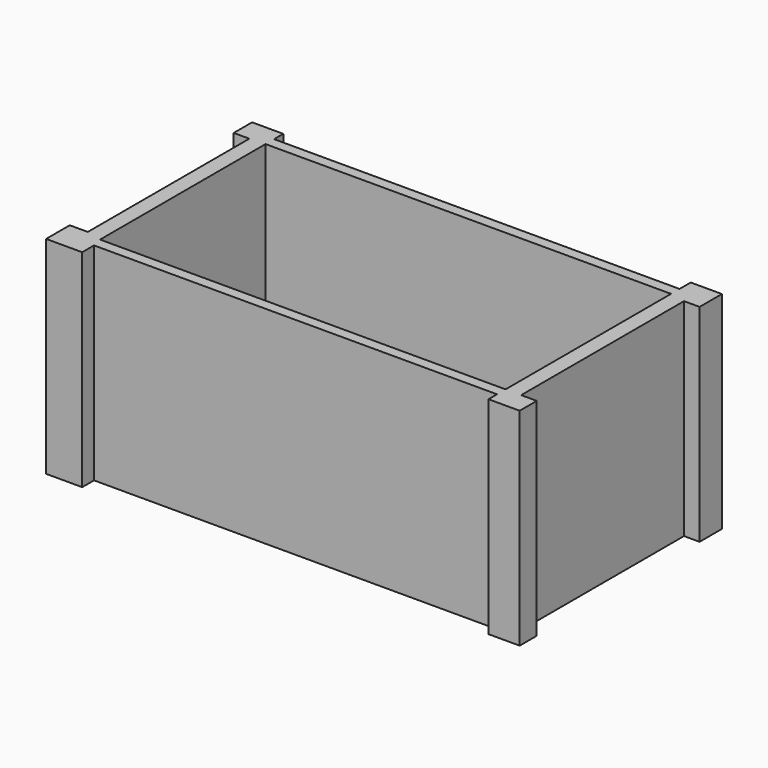
from build123d import *

# Parameters (mm, degrees)
F1_DEPTH = 25.4
F2_W     = 49.792064
F2_H     = 25.400002
F3_DEPTH = 0.0254


with BuildPart() as f1:
    # F0 (on Top) → F1 (new body)
    with BuildSketch(Plane.XY):
        Polygon((24.896032, 15.723812), (24.896032, 14.010318), (-24.896032, 14.010318), (-24.896032, 15.421428), (-28.726192, 15.421428), (-28.726192, 12.599208), (-26.811112, 12.599208), (-26.811112, -12.196032), (-29.028572, -12.196032), (-29.028572, -15.824604), (-24.593653, -15.824604), (-24.593653, -14.010318), (24.896034, -14.010318), (24.896034, -15.320636), (28.726191, -15.320636), (28.726191, -12.7), (26.811112, -12.7), (26.811112, 12.296823), (28.726192, 12.296823), (28.726192, 15.723812), align=None)
        Polygon((-24.896032, 12.700001), (24.896032, 12.700001), (24.896032, 12.296823), (24.896032, -12.700001), (-24.593653, -12.700001), (-24.896032, -12.700001), (-24.896032, -12.196032), (-24.896032, 12.599208), align=None, mode=Mode.SUBTRACT)
    extrude(amount=F1_DEPTH)

    # F2 (on face) → F3 (join)
    with BuildSketch(Plane(origin=(0, 0, 0), x_dir=(1, 0, 0), z_dir=(0, 0, -1))):
        Rectangle(F2_W, F2_H)
    extrude(amount=-F3_DEPTH)


solid = f1.part
